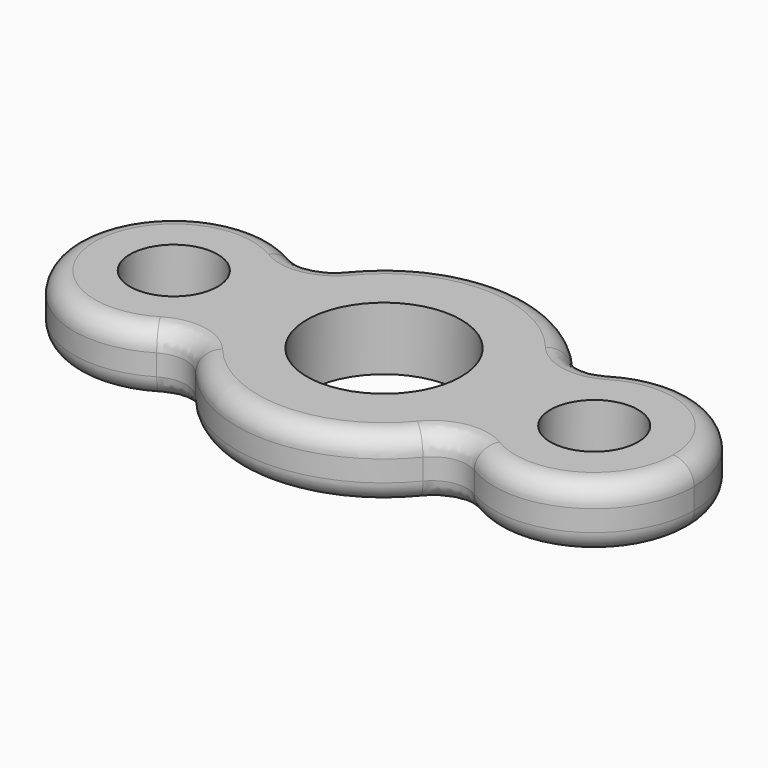
from build123d import *

# Parameters (mm, degrees)
F0_R     = 6.25
F0_R_2   = 11
F1_DEPTH = 9
F2_R     = 5
F3_R     = 3
F4_R     = 3


with BuildPart() as f1:
    # F0 (on Top) → F1 (new body)
    with BuildSketch(Plane.XY):
        with BuildLine():
            ThreePointArc((18.965625, 9.0169323142), (20.4850936659, 4.6217894262), (21, 0))
            ThreePointArc((21, 0), (20.4850936659, -4.6217894262), (18.965625, -9.0169323142))
            ThreePointArc((18.965625, -9.0169323142), (34.7865779138, -13.4220405258), (44.25, 0))
            ThreePointArc((44.25, 0), (34.7865779138, 13.4220405258), (18.965625, 9.0169323142))
        make_face()
        with Locations((30, 0)):
            Circle(F0_R, mode=Mode.SUBTRACT)
        with BuildLine():
            ThreePointArc((-15.75, 0), (-16.5779594742, 4.7865779138), (-18.965625, 9.0169323142))
            ThreePointArc((-18.965625, 9.0169323142), (-21, 0), (-18.965625, -9.0169323142))
            ThreePointArc((-18.965625, -9.0169323142), (-16.5779594742, -4.7865779138), (-15.75, 0))
        make_face()
        with BuildLine():
            ThreePointArc((18.965625, -9.0169323142), (20.4850936659, -4.6217894262), (21, 0))
            ThreePointArc((21, 0), (20.4850936659, 4.6217894262), (18.965625, 9.0169323142))
            ThreePointArc((18.965625, 9.0169323142), (15.75, 0), (18.965625, -9.0169323142))
        make_face()
        with BuildLine():
            ThreePointArc((18.965625, -9.0169323142), (15.75, 0), (18.965625, 9.0169323142))
            ThreePointArc((18.965625, 9.0169323142), (0, 21), (-18.965625, 9.0169323142))
            ThreePointArc((-18.965625, 9.0169323142), (-16.5779594742, 4.7865779138), (-15.75, 0))
            ThreePointArc((-15.75, 0), (-16.5779594742, -4.7865779138), (-18.965625, -9.0169323142))
            ThreePointArc((-18.965625, -9.0169323142), (0, -21), (18.965625, -9.0169323142))
        make_face()
        Circle(F0_R_2, mode=Mode.SUBTRACT)
        with BuildLine():
            ThreePointArc((-18.965625, -9.0169323142), (-21, 0), (-18.965625, 9.0169323142))
            ThreePointArc((-18.965625, 9.0169323142), (-44.25, 0), (-18.965625, -9.0169323142))
        make_face()
        with Locations((-30, 0)):
            Circle(F0_R, mode=Mode.SUBTRACT)
    extrude(amount=F1_DEPTH)

    # F2
    f2_edges = [f1.edges().sort_by_distance(p)[0] for p in [
        (-18.965625, 9.016932, 4.5),
        (18.965625, 9.016932, 4.5),
        (-18.965625, -9.016932, 4.5),
        (18.965625, -9.016932, 4.5),
    ]]
    fillet(f2_edges, radius=F2_R)

    # F3
    f3_edges = [f1.edges().sort_by_distance(p)[0] for p in [
        (-44.25, 0, 9),
        (-19.238882, 11.576619, 9),
        (0, 21, 9),
        (19.238882, 11.576619, 9),
        (44.25, 0, 9),
        (19.238882, -11.576619, 9),
        (0, -21, 9),
        (-19.238882, -11.576619, 9),
    ]]
    fillet(f3_edges, radius=F3_R)

    # F4
    f4_edges = [f1.edges().sort_by_distance(p)[0] for p in [
        (-19.238882, -11.576619, 0),
        (-44.25, 0, 0),
        (-19.238882, 11.576619, 0),
        (0, 21, 0),
        (19.238882, 11.576619, 0),
        (44.25, 0, 0),
        (0, -21, 0),
        (19.238882, -11.576619, 0),
    ]]
    fillet(f4_edges, radius=F4_R)


solid = f1.part
